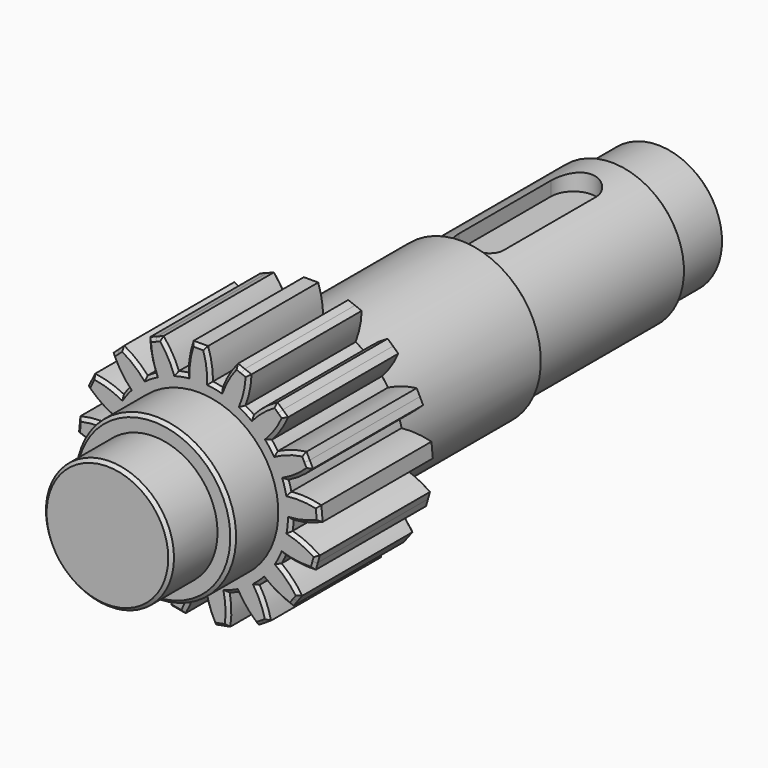
from build123d import *

# Parameters (mm, degrees)
F0_R      = 20
F1_DEPTH  = 18
F2_R      = 25
F3_DEPTH  = 17.5
F5_DEPTH  = 45
F6_R      = 25
F7_DEPTH  = 58.5
F8_R      = 22.5
F9_DEPTH  = 59
F10_R     = 20
F11_DEPTH = 18
F14_DEPTH = 5.5
F15_SIZE  = 1
F16_SIZE  = 1
F17_SIZE  = 1


with BuildPart() as f1:
    # F0 (on Front) → F1 (new body)
    with BuildSketch(Plane.XZ):
        Circle(F0_R)
    extrude(amount=-F1_DEPTH)

    # F2 (on face) → F3 (join)
    with BuildSketch(Plane(origin=(0, 18, 0), x_dir=(-1, 0, 0), z_dir=(0, 1, 0))):
        Circle(F2_R)
    extrude(amount=F3_DEPTH)

    # F4 (on face) → F5 (join)
    with BuildSketch(Plane(origin=(0, 35.5, 0), x_dir=(-1, 0, 0), z_dir=(0, 1, 0))):
        with BuildLine():
            ThreePointArc((28.9786364626, -1.112937), (28.9946586238, -0.5565710122), (29, 0))
            ThreePointArc((29, 0), (28.8196186275, 3.2294863628), (28.2807184712, 6.4187976096))
            ThreePointArc((28.2807184712, 6.4187976096), (27.892943652, 7.9362267121), (27.4238129637, 9.430508074))
            ThreePointArc((27.4238129637, 9.430508074), (25.9597354493, 12.9264123175), (24.0522474586, 16.2015243786))
            ThreePointArc((24.0522474586, 16.2015243786), (23.1424995911, 17.476404455), (22.1652515633, 18.7003107764))
            ThreePointArc((22.1652515633, 18.7003107764), (19.5371736658, 21.4312585994), (16.5753871486, 23.7961455046))
            ThreePointArc((16.5753871486, 23.7961455046), (15.2665327234, 24.6562969362), (13.9131501175, 25.4445328864))
            ThreePointArc((13.9131501175, 25.4445328864), (10.4760083194, 27.0416946527), (6.8599289568, 28.1769653211))
            ThreePointArc((6.8599289568, 28.1769653211), (5.3287360167, 28.5062198908), (3.7820006528, 28.7523298371))
            ThreePointArc((3.7820006528, 28.7523298371), (0, 29), (-3.7820006528, 28.7523298371))
            ThreePointArc((-3.7820006528, 28.7523298371), (-5.3287360167, 28.5062198908), (-6.8599289568, 28.1769653211))
            ThreePointArc((-6.8599289568, 28.1769653211), (-10.4760083194, 27.0416946527), (-13.9131501175, 25.4445328864))
            ThreePointArc((-13.9131501175, 25.4445328864), (-15.2665327234, 24.6562969362), (-16.5753871486, 23.7961455046))
            ThreePointArc((-16.5753871486, 23.7961455046), (-19.5371736658, 21.4312585994), (-22.1652515633, 18.7003107764))
            ThreePointArc((-22.1652515633, 18.7003107764), (-23.1424995911, 17.476404455), (-24.0522474586, 16.2015243786))
            ThreePointArc((-24.0522474586, 16.2015243786), (-25.9597354493, 12.9264123175), (-27.4238129637, 9.430508074))
            ThreePointArc((-27.4238129637, 9.430508074), (-27.892943652, 7.9362267121), (-28.2807184712, 6.4187976096))
            ThreePointArc((-28.2807184712, 6.4187976096), (-28.8762911126, 2.6757824244), (-28.9786364626, -1.112937))
            ThreePointArc((-28.9786364626, -1.112937), (-28.8762911126, -2.6757824244), (-28.6897217454, -4.2308233444))
            ThreePointArc((-28.6897217454, -4.2308233444), (-27.892943652, -7.9362267121), (-26.6197345312, -11.5060737652))
            ThreePointArc((-26.6197345312, -11.5060737652), (-25.9597354493, -12.9264123175), (-25.2240191227, -14.3090481619))
            ThreePointArc((-25.2240191227, -14.3090481619), (-23.1424995911, -17.476404455), (-20.6656899463, -20.345251511))
            ThreePointArc((-20.6656899463, -20.345251511), (-19.5371736658, -21.4312585994), (-18.3516729463, -22.454756736))
            ThreePointArc((-18.3516729463, -22.454756736), (-15.2665327234, -24.6562969362), (-11.9206294215, -26.4366903033))
            ThreePointArc((-11.9206294215, -26.4366903033), (-10.4760083194, -27.0416946527), (-9.0008316484, -27.5678259868))
            ThreePointArc((-9.0008316484, -27.5678259868), (-5.3287360167, -28.5062198908), (-1.565621839, -28.9577075795))
            ThreePointArc((-1.565621839, -28.9577075795), (0, -29), (1.565621839, -28.9577075795))
            ThreePointArc((1.565621839, -28.9577075795), (5.3287360167, -28.5062198908), (9.0008316484, -27.5678259868))
            ThreePointArc((9.0008316484, -27.5678259868), (10.4760083194, -27.0416946527), (11.9206294215, -26.4366903033))
            ThreePointArc((11.9206294215, -26.4366903033), (15.2665327234, -24.6562969362), (18.3516729463, -22.454756736))
            ThreePointArc((18.3516729463, -22.454756736), (19.5371736658, -21.4312585994), (20.6656899463, -20.345251511))
            ThreePointArc((20.6656899463, -20.345251511), (23.1424995911, -17.476404455), (25.2240191227, -14.3090481619))
            ThreePointArc((25.2240191227, -14.3090481619), (25.9597354493, -12.9264123175), (26.6197345312, -11.5060737652))
            ThreePointArc((26.6197345312, -11.5060737652), (27.892943652, -7.9362267121), (28.6897217454, -4.2308233444))
            ThreePointArc((28.6897217454, -4.2308233444), (28.8762911126, -2.6757824244), (28.9786364626, -1.112937))
        make_face()
        with BuildLine():
            ThreePointArc((28.2807184712, 6.4187976096), (28.8196186275, 3.2294863628), (29, 0))
            ThreePointArc((29, 0), (28.9946586238, -0.5565710122), (28.9786364626, -1.112937))
            ThreePointArc((28.9786364626, -1.112937), (33.615377012, -0.3173414195), (38.045502508, 1.2657957629))
            Line((38.045502508, 1.2657957629), (37.8378986992, 3.5061976596))
            Line((37.8378986992, 3.5061976596), (37.6302948904, 5.7465995563))
            ThreePointArc((37.6302948904, 5.7465995563), (32.9847000057, 6.488747396), (28.2807184712, 6.4187976096))
        make_face()
        with BuildLine():
            ThreePointArc((24.0522474586, 16.2015243786), (25.9597354493, 12.9264123175), (27.4238129637, 9.430508074))
            ThreePointArc((27.4238129637, 9.430508074), (31.4600424877, 11.8473627404), (35.019116372, 14.923940114))
            Line((35.019116372, 14.923940114), (34.0162050715, 16.9380575195))
            Line((34.0162050715, 16.9380575195), (33.013293771, 18.9521749251))
            ThreePointArc((33.013293771, 18.9521749251), (28.4133108297, 17.9660247391), (24.0522474586, 16.2015243786))
        make_face()
        with BuildLine():
            ThreePointArc((37.1651161682, -8.2350859256), (33.1013226713, -5.8648712384), (28.6897217454, -4.2308233444))
            ThreePointArc((28.6897217454, -4.2308233444), (27.892943652, -7.9362267121), (26.6197345312, -11.5060737652))
            ThreePointArc((26.6197345312, -11.5060737652), (31.2307686015, -12.4391868622), (35.9336327129, -12.5633013199))
            Line((35.9336327129, -12.5633013199), (36.5493744406, -10.3991936227))
            Line((36.5493744406, -10.3991936227), (37.1651161682, -8.2350859256))
        make_face()
        with BuildLine():
            ThreePointArc((16.5753871486, 23.7961455046), (19.5371736658, 21.4312585994), (22.1652515633, 18.7003107764))
            ThreePointArc((22.1652515633, 18.7003107764), (25.0558548994, 22.4120149137), (27.2632045223, 26.5665236562))
            Line((27.2632045223, 26.5665236562), (25.6004344586, 28.0823388544))
            Line((25.6004344586, 28.0823388544), (23.9376643948, 29.5981540526))
            ThreePointArc((23.9376643948, 29.5981540526), (20.0045465826, 27.016890888), (16.5753871486, 23.7961455046))
        make_face()
        with BuildLine():
            ThreePointArc((31.6805825685, -21.104577421), (28.7474282894, -17.4264065136), (25.2240191227, -14.3090481619))
            ThreePointArc((25.2240191227, -14.3090481619), (23.1424995911, -17.476404455), (20.6656899463, -20.345251511))
            ThreePointArc((20.6656899463, -20.345251511), (24.6282718357, -22.8810511913), (28.9687267048, -24.6956549438))
            Line((28.9687267048, -24.6956549438), (30.3246546366, -22.9001161824))
            Line((30.3246546366, -22.9001161824), (31.6805825685, -21.104577421))
        make_face()
        with BuildLine():
            ThreePointArc((6.8599289568, 28.1769653211), (10.4760083194, 27.0416946527), (13.9131501175, 25.4445328864))
            ThreePointArc((13.9131501175, 25.4445328864), (15.2677352677, 29.9498002836), (15.8252458313, 34.6211509684))
            Line((15.8252458313, 34.6211509684), (13.7271833151, 35.4339447174))
            Line((13.7271833151, 35.4339447174), (11.629120799, 36.2467384663))
            ThreePointArc((11.629120799, 36.2467384663), (8.8940574706, 32.4189762168), (6.8599289568, 28.1769653211))
        make_face()
        with BuildLine():
            ThreePointArc((21.9174107447, -31.1237787913), (20.5110344221, -26.6344090261), (18.3516729463, -22.454756736))
            ThreePointArc((18.3516729463, -22.454756736), (15.2665327234, -24.6562969362), (11.9206294215, -26.4366903033))
            ThreePointArc((11.9206294215, -26.4366903033), (14.6995904885, -30.2327027687), (18.0914336339, -33.4927235242))
            Line((18.0914336339, -33.4927235242), (20.0044221893, -32.3082511577))
            Line((20.0044221893, -32.3082511577), (21.9174107447, -31.1237787913))
        make_face()
        with BuildLine():
            ThreePointArc((-3.7820006528, 28.7523298371), (0, 29), (3.7820006528, 28.7523298371))
            ThreePointArc((3.7820006528, 28.7523298371), (3.4176233866, 33.4426991677), (2.25, 38))
            Line((2.25, 38), (0, 38))
            Line((0, 38), (-2.25, 38))
            ThreePointArc((-2.25, 38), (-3.4176233866, 33.4426991677), (-3.7820006528, 28.7523298371))
        make_face()
        with BuildLine():
            ThreePointArc((9.1941711513, -36.9395413729), (9.5045117004, -32.2452870133), (9.0008316484, -27.5678259868))
            ThreePointArc((9.0008316484, -27.5678259868), (5.3287360167, -28.5062198908), (1.565621839, -28.9577075795))
            ThreePointArc((1.565621839, -28.9577075795), (2.7856479927, -33.501260312), (4.7707922027, -37.7664142031))
            Line((4.7707922027, -37.7664142031), (6.982481677, -37.352977788))
            Line((6.982481677, -37.352977788), (9.1941711513, -36.9395413729))
        make_face()
        with BuildLine():
            ThreePointArc((-13.9131501175, 25.4445328864), (-10.4760083194, 27.0416946527), (-6.8599289568, 28.1769653211))
            ThreePointArc((-6.8599289568, 28.1769653211), (-8.8940574706, 32.4189762168), (-11.629120799, 36.2467384663))
            Line((-11.629120799, 36.2467384663), (-13.7271833151, 35.4339447174))
            Line((-13.7271833151, 35.4339447174), (-15.8252458313, 34.6211509684))
            ThreePointArc((-15.8252458313, 34.6211509684), (-15.2677352677, 29.9498002836), (-13.9131501175, 25.4445328864))
        make_face()
        with BuildLine():
            ThreePointArc((-4.7707922027, -37.7664142031), (-2.7856479927, -33.501260312), (-1.565621839, -28.9577075795))
            ThreePointArc((-1.565621839, -28.9577075795), (-5.3287360167, -28.5062198908), (-9.0008316484, -27.5678259868))
            ThreePointArc((-9.0008316484, -27.5678259868), (-9.5045117004, -32.2452870133), (-9.1941711513, -36.9395413729))
            Line((-9.1941711513, -36.9395413729), (-6.982481677, -37.352977788))
            Line((-6.982481677, -37.352977788), (-4.7707922027, -37.7664142031))
        make_face()
        with BuildLine():
            ThreePointArc((-22.1652515633, 18.7003107764), (-19.5371736658, 21.4312585994), (-16.5753871486, 23.7961455046))
            ThreePointArc((-16.5753871486, 23.7961455046), (-20.0045465826, 27.016890888), (-23.9376643948, 29.5981540526))
            Line((-23.9376643948, 29.5981540526), (-25.6004344586, 28.0823388544))
            Line((-25.6004344586, 28.0823388544), (-27.2632045223, 26.5665236562))
            ThreePointArc((-27.2632045223, 26.5665236562), (-25.0558548994, 22.4120149137), (-22.1652515633, 18.7003107764))
        make_face()
        with BuildLine():
            ThreePointArc((-18.0914336339, -33.4927235242), (-14.6995904885, -30.2327027687), (-11.9206294215, -26.4366903033))
            ThreePointArc((-11.9206294215, -26.4366903033), (-15.2665327234, -24.6562969362), (-18.3516729463, -22.454756736))
            ThreePointArc((-18.3516729463, -22.454756736), (-20.5110344221, -26.6344090261), (-21.9174107447, -31.1237787913))
            Line((-21.9174107447, -31.1237787913), (-20.0044221893, -32.3082511577))
            Line((-20.0044221893, -32.3082511577), (-18.0914336339, -33.4927235242))
        make_face()
        with BuildLine():
            ThreePointArc((-27.4238129637, 9.430508074), (-25.9597354493, 12.9264123175), (-24.0522474586, 16.2015243786))
            ThreePointArc((-24.0522474586, 16.2015243786), (-28.4133108297, 17.9660247391), (-33.013293771, 18.9521749251))
            Line((-33.013293771, 18.9521749251), (-34.0162050715, 16.9380575195))
            Line((-34.0162050715, 16.9380575195), (-35.019116372, 14.923940114))
            ThreePointArc((-35.019116372, 14.923940114), (-31.4600424877, 11.8473627404), (-27.4238129637, 9.430508074))
        make_face()
        with BuildLine():
            ThreePointArc((-28.9687267048, -24.6956549438), (-24.6282718357, -22.8810511913), (-20.6656899463, -20.345251511))
            ThreePointArc((-20.6656899463, -20.345251511), (-23.1424995911, -17.476404455), (-25.2240191227, -14.3090481619))
            ThreePointArc((-25.2240191227, -14.3090481619), (-28.7474282894, -17.4264065136), (-31.6805825685, -21.104577421))
            Line((-31.6805825685, -21.104577421), (-30.3246546366, -22.9001161824))
            Line((-30.3246546366, -22.9001161824), (-28.9687267048, -24.6956549438))
        make_face()
        with BuildLine():
            ThreePointArc((-28.9786364626, -1.112937), (-28.8762911126, 2.6757824244), (-28.2807184712, 6.4187976096))
            ThreePointArc((-28.2807184712, 6.4187976096), (-32.9847000057, 6.488747396), (-37.6302948904, 5.7465995563))
            Line((-37.6302948904, 5.7465995563), (-37.8378986992, 3.5061976596))
            Line((-37.8378986992, 3.5061976596), (-38.045502508, 1.2657957629))
            ThreePointArc((-38.045502508, 1.2657957629), (-33.615377012, -0.3173414195), (-28.9786364626, -1.112937))
        make_face()
        with BuildLine():
            ThreePointArc((-35.9336327129, -12.5633013199), (-31.2307686015, -12.4391868622), (-26.6197345312, -11.5060737652))
            ThreePointArc((-26.6197345312, -11.5060737652), (-27.892943652, -7.9362267121), (-28.6897217454, -4.2308233444))
            ThreePointArc((-28.6897217454, -4.2308233444), (-33.1013226713, -5.8648712384), (-37.1651161682, -8.2350859256))
            Line((-37.1651161682, -8.2350859256), (-36.5493744406, -10.3991936227))
            Line((-36.5493744406, -10.3991936227), (-35.9336327129, -12.5633013199))
        make_face()
    extrude(amount=F5_DEPTH)

    # F6 (on face) → F7 (join)
    with BuildSketch(Plane(origin=(0, 80.5, 0), x_dir=(-1, 0, 0), z_dir=(0, 1, 0))):
        Circle(F6_R)
    extrude(amount=F7_DEPTH)

    # F8 (on face) → F9 (join)
    with BuildSketch(Plane(origin=(0, 139, 0), x_dir=(-1, 0, 0), z_dir=(0, 1, 0))):
        Circle(F8_R)
    extrude(amount=F9_DEPTH)

    # F10 (on face) → F11 (join)
    with BuildSketch(Plane(origin=(0, 198, 0), x_dir=(-1, 0, 0), z_dir=(0, 1, 0))):
        Circle(F10_R)
    extrude(amount=F11_DEPTH)

    # F13 (on offset) → F14 (cut)
    with BuildSketch(Plane.XY.offset(22.5)):
        with BuildLine():
            Line((-7, 182), (-7, 146))
            ThreePointArc((-7, 146), (0, 139), (7, 146))
            Line((7, 146), (7, 182))
            ThreePointArc((7, 182), (0, 189), (-7, 182))
        make_face()
    extrude(amount=-F14_DEPTH, mode=Mode.SUBTRACT)

    # F15
    f15_edges = [f1.edges().sort_by_distance(p)[0] for p in [
        (25, 18, 0),
        (-20, 0, 0),
        (25, 139, 0),
        (22.5, 198, 0),
        (20, 216, 0),
    ]]
    chamfer(f15_edges, length=F15_SIZE)

    # F16
    f16_edges = [f1.edges().sort_by_distance(p)[0] for p in [
        (27.892944, 35.5, 7.936227),
        (31.230769, 35.5, -12.439187),
        (-2.785648, 35.5, -33.50126),
        (-15.266533, 35.5, 24.656297),
        (-5.328736, 35.5, 28.50622),
        (-25.600434, 35.5, 28.082339),
        (-15.267735, 35.5, 29.9498),
        (25.055855, 35.5, 22.412015),
        (20.004422, 35.5, -32.308251),
        (24.628272, 35.5, -22.881051),
        (-24.628272, 35.5, -22.881051),
        (-8.894057, 35.5, 32.418976),
        (20.004547, 35.5, 27.016891),
        (33.101323, 35.5, -5.864871),
        (20.511034, 35.5, -26.634409),
        (-37.837899, 35.5, 3.506198),
        (5.328736, 35.5, 28.50622),
        (15.266533, 35.5, 24.656297),
        (-33.101323, 35.5, -5.864871),
        (23.1425, 35.5, 17.476404),
        (31.460042, 35.5, 11.847363),
        (3.417623, 35.5, 33.442699),
        (28.747428, 35.5, -17.426407),
        (-30.324655, 35.5, -22.900116),
        (9.504512, 35.5, -32.245287),
        (-31.230769, 35.5, -12.439187),
        (-34.016205, 35.5, 16.938058),
        (32.9847, 35.5, 6.488747),
        (-36.549374, 35.5, -10.399194),
        (10.476008, 35.5, -27.041695),
        (37.837899, 35.5, 3.506198),
        (-6.982482, 35.5, -37.352978),
        (33.615377, 35.5, -0.317341),
        (8.894057, 35.5, 32.418976),
        (-20.004547, 35.5, 27.016891),
        (-14.69959, 35.5, -30.232703),
        (-13.727183, 35.5, 35.433945),
        (0, 35.5, 38),
        (30.324655, 35.5, -22.900116),
        (-25.055855, 35.5, 22.412015),
        (-23.1425, 35.5, 17.476404),
        (28.413311, 35.5, 17.966025),
        (-28.413311, 35.5, 17.966025),
        (25.959735, 35.5, -12.926412),
        (6.982482, 35.5, -37.352978),
        (-33.615377, 35.5, -0.317341),
        (34.016205, 35.5, 16.938058),
        (-28.747428, 35.5, -17.426407),
        (-9.504512, 35.5, -32.245287),
        (-10.476008, 35.5, -27.041695),
        (-27.892944, 35.5, 7.936227),
        (25.600434, 35.5, 28.082339),
        (-20.511034, 35.5, -26.634409),
        (-31.460042, 35.5, 11.847363),
        (14.69959, 35.5, -30.232703),
        (2.785648, 35.5, -33.50126),
        (13.727183, 35.5, 35.433945),
        (-20.004422, 35.5, -32.308251),
        (15.267735, 35.5, 29.9498),
        (0, 35.5, -29),
        (-28.876291, 35.5, -2.675782),
        (-32.9847, 35.5, 6.488747),
        (28.876291, 35.5, -2.675782),
        (-25.959735, 35.5, -12.926412),
        (36.549374, 35.5, -10.399194),
        (-19.537174, 35.5, -21.431259),
        (-3.417623, 35.5, 33.442699),
        (19.537174, 35.5, -21.431259),
    ]]
    chamfer(f16_edges, length=F16_SIZE)

    # F17
    f17_edges = [f1.edges().sort_by_distance(p)[0] for p in [
        (33.615377, 80.5, -0.317341),
        (0, 80.5, 38),
        (-23.1425, 80.5, 17.476404),
        (-25.600434, 80.5, 28.082339),
        (-6.982482, 80.5, -37.352978),
        (8.894057, 80.5, 32.418976),
        (28.747428, 80.5, -17.426407),
        (27.892944, 80.5, 7.936227),
        (-36.549374, 80.5, -10.399194),
        (23.1425, 80.5, 17.476404),
        (13.727183, 80.5, 35.433945),
        (-32.9847, 80.5, 6.488747),
        (20.511034, 80.5, -26.634409),
        (-33.615377, 80.5, -0.317341),
        (-14.69959, 80.5, -30.232703),
        (14.69959, 80.5, -30.232703),
        (-2.785648, 80.5, -33.50126),
        (-33.101323, 80.5, -5.864871),
        (-37.837899, 80.5, 3.506198),
        (28.413311, 80.5, 17.966025),
        (24.628272, 80.5, -22.881051),
        (-27.892944, 80.5, 7.936227),
        (32.9847, 80.5, 6.488747),
        (-9.504512, 80.5, -32.245287),
        (-25.055855, 80.5, 22.412015),
        (5.328736, 80.5, 28.50622),
        (33.101323, 80.5, -5.864871),
        (-15.266533, 80.5, 24.656297),
        (25.600434, 80.5, 28.082339),
        (-5.328736, 80.5, 28.50622),
        (19.537174, 80.5, -21.431259),
        (-8.894057, 80.5, 32.418976),
        (6.982482, 80.5, -37.352978),
        (34.016205, 80.5, 16.938058),
        (36.549374, 80.5, -10.399194),
        (-3.417623, 80.5, 33.442699),
        (9.504512, 80.5, -32.245287),
        (15.266533, 80.5, 24.656297),
        (-10.476008, 80.5, -27.041695),
        (-24.628272, 80.5, -22.881051),
        (25.959735, 80.5, -12.926412),
        (3.417623, 80.5, 33.442699),
        (-20.511034, 80.5, -26.634409),
        (-28.747428, 80.5, -17.426407),
        (-25.959735, 80.5, -12.926412),
        (20.004547, 80.5, 27.016891),
        (-31.460042, 80.5, 11.847363),
        (28.876291, 80.5, -2.675782),
        (31.460042, 80.5, 11.847363),
        (10.476008, 80.5, -27.041695),
        (-28.876291, 80.5, -2.675782),
        (2.785648, 80.5, -33.50126),
        (20.004422, 80.5, -32.308251),
        (31.230769, 80.5, -12.439187),
        (-20.004547, 80.5, 27.016891),
        (-13.727183, 80.5, 35.433945),
        (-28.413311, 80.5, 17.966025),
        (-15.267735, 80.5, 29.9498),
        (-34.016205, 80.5, 16.938058),
        (0, 80.5, -29),
        (-31.230769, 80.5, -12.439187),
        (25.055855, 80.5, 22.412015),
        (37.837899, 80.5, 3.506198),
        (-30.324655, 80.5, -22.900116),
        (-20.004422, 80.5, -32.308251),
        (15.267735, 80.5, 29.9498),
        (-19.537174, 80.5, -21.431259),
        (30.324655, 80.5, -22.900116),
    ]]
    chamfer(f17_edges, length=F17_SIZE)


solid = f1.part
